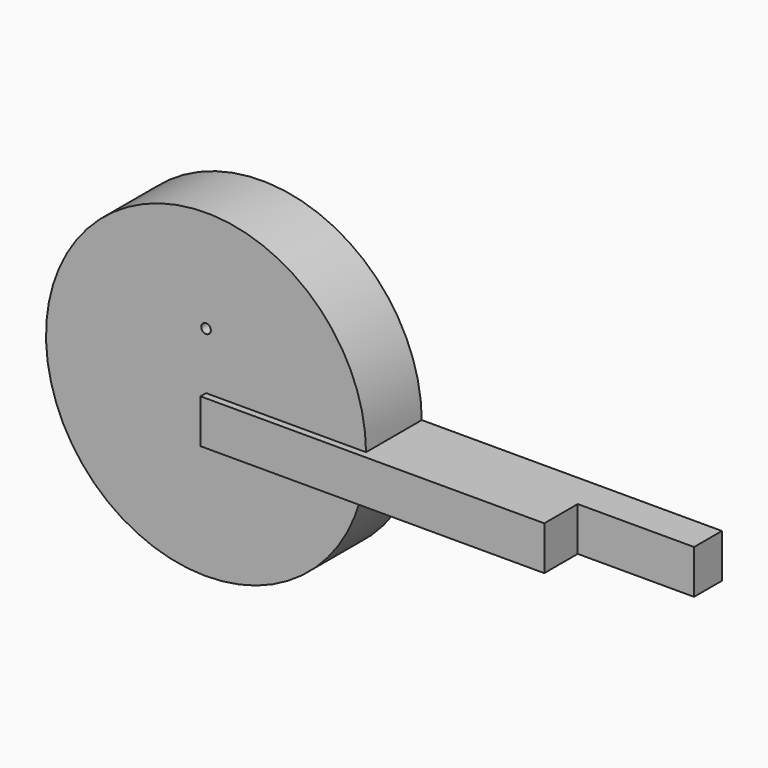
from build123d import *

# Parameters (mm, degrees)
F2_DEPTH = 63.5
F0_W     = 627.0736455917
F0_H     = 80.0375938416
F3_DEPTH = 76.2
F5_D     = 17.5
F6_W     = 63.5
F6_H     = 80.0375938416
F7_DEPTH = 839.2885923386


with BuildPart() as f2:
    # F1 (on face) → F2 (new body, symmetric)
    with BuildSketch(Plane.XZ):
        with BuildLine():
            Line((0, 298.9611625671), (291.8738404898, 298.9611625671))
            ThreePointArc((291.8738404898, 298.9611625671), (-289.3594591256, 335.1473667086), (281.2837032222, 218.9235687256))
            Line((281.2837032222, 218.9235687256), (0, 218.9235687256))
            Line((0, 218.9235687256), (0, 298.9611625671))
        make_face()
    extrude(amount=F2_DEPTH, both=True)

    # F0 (on Front) → F3 (join)
    with BuildSketch(Plane.XZ):
        with Locations((313.5368227959, 258.9423656464)):
            Rectangle(F0_W, F0_H)
        with Locations((313.5368227959, 258.9423656464)):
            Rectangle(F0_W, F0_H)
    extrude(amount=F3_DEPTH)

    # F5 (through all)
    with Locations(Plane(origin=(0, 63.5, 0), x_dir=(-1, 0, 0), z_dir=(0, 1, 0))):
        with Locations((0, 402.5558233261)):
            Hole(F5_D / 2)

    # F6 (on face) → F7 (join)
    with BuildSketch(Plane.YZ):
        with Locations((31.75, 258.9423656464)):
            Rectangle(F6_W, F6_H)
    extrude(amount=F7_DEPTH)


solid = f2.part
